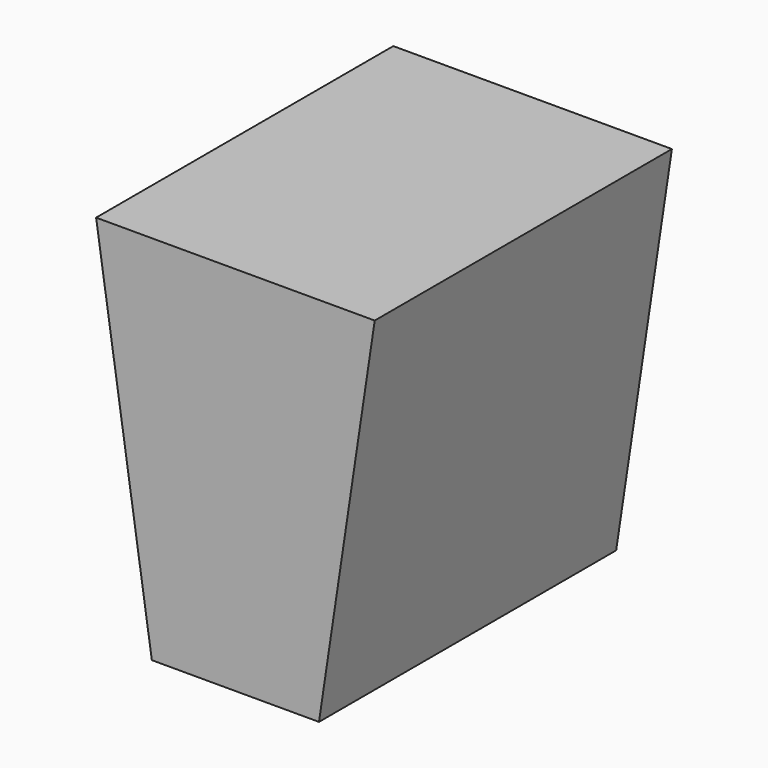
from build123d import *

# Parameters (mm, degrees)
F1_DEPTH = 400
F3_DEPTH = 25


with BuildPart() as f1:
    # F0 (on Front) → F1 (new body)
    with BuildSketch(Plane.XZ):
        Polygon((-150, 400), (-90, 0), (90, 0), (150, 400), align=None)
    extrude(amount=F1_DEPTH)

    # F2 (on face) → F3 (cut)
    with BuildSketch(Plane(origin=(0, 0, 0), x_dir=(1, 0, 0), z_dir=(0, 0, -1))):
        Polygon((90, 126.210973), (90, 200), (33.838596, 200), align=None)
    extrude(amount=-F3_DEPTH, mode=Mode.SUBTRACT)


solid = f1.part
